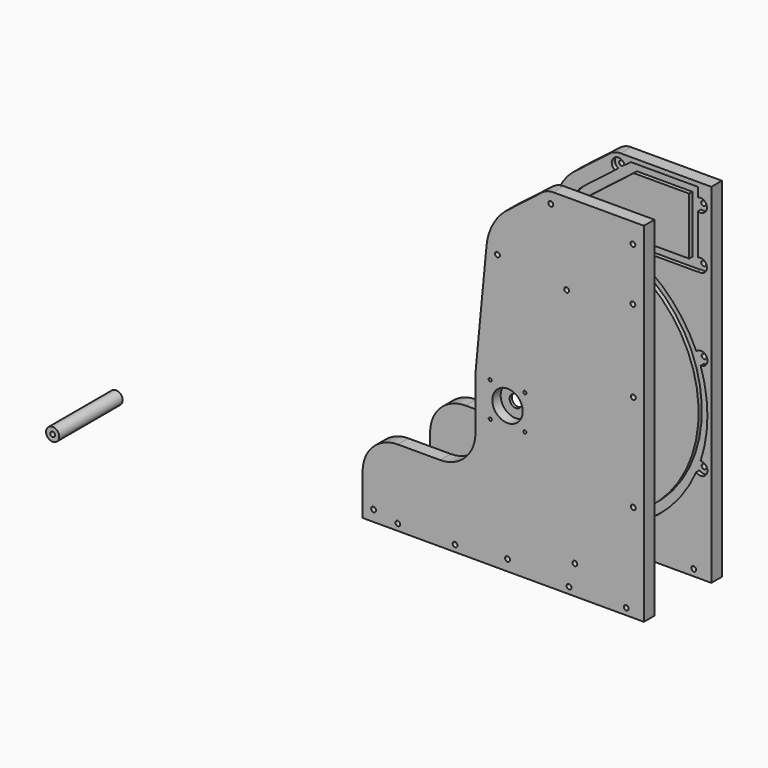
from build123d import *

# Parameters (mm, degrees)
F0_R           = 1.75
F1_DEPTH       = 57.15
F0_R_2         = 4.75
F2_R           = 1.75
F3_DEPTH       = 57.15
F4_W           = 202.8534728251
F4_H           = 251.483
F5_DEPTH       = 3.175
F5_DEPTH_BACK  = 6.35
F6_R           = 4.5
F7_DEPTH       = 25.4
F8_R           = 10.95
F9_DEPTH       = 7.5
F10_R          = 1.125
F11_DEPTH      = 8
F13_DEPTH      = 25.4
F14_R          = 12.7
F15_R          = 25.4
F16_R          = 1.75
F17_DEPTH      = 25.4
F19_DEPTH      = 63.5
F19_DEPTH_BACK = 2.921
F22_R          = 1.75
F23_DEPTH      = 70.359
F24_R          = 1.75
F25_DEPTH      = 25.4


with BuildPart() as f1:
    # F0 (on Front) → F1 (new body)
    with BuildSketch(Plane.XZ):
        with BuildLine():
            ThreePointArc((25.0587877486, 85.5598788719), (88.2508956242, -12.6576118414), (0, -89.154))
            Line((0, -89.154), (-101.346, -89.154))
            Line((-101.346, -89.154), (-101.346, -95.504))
            Line((-101.346, -95.504), (-101.0118804332, -95.504))
            ThreePointArc((-101.0118804332, -95.504), (-96.596, -102.004), (-92.1801195668, -95.504))
            Line((-92.1801195668, -95.504), (-4.4158804332, -95.504))
            ThreePointArc((-4.4158804332, -95.504), (0.05416752, -102.0036911352), (4.3748216005, -95.4037470541))
            ThreePointArc((4.3748216005, -95.4037470541), (24.6792138884, -92.2602320496), (43.8413723267, -84.8466150681))
            ThreePointArc((43.8413723267, -84.8466150681), (50.9272164799, -88.3811893878), (51.422485546, -80.4782082074))
            ThreePointArc((51.422485546, -80.4782082074), (72.5596056535, -62.0976460375), (87.4548836819, -38.3752177347))
            ThreePointArc((87.4548836819, -38.3752177347), (95.186532338, -36.665243453), (90.5999348376, -30.210359538))
            ThreePointArc((90.5999348376, -30.210359538), (95.504, 0), (90.5999348376, 30.210359538))
            ThreePointArc((90.5999348376, 30.210359538), (95.186532338, 36.665243453), (87.4548836819, 38.3752177347))
            ThreePointArc((87.4548836819, 38.3752177347), (70.3810937435, 64.5562983718), (45.7686963095, 83.8226726735))
            ThreePointArc((45.7686963095, 83.8226726735), (47.2640202469, 86.2823767858), (47.0642250669, 89.154))
            Line((47.0642250669, 89.154), (88.6574728251, 89.154))
            Line((88.6574728251, 89.154), (88.6574728251, 89.4881195668))
            ThreePointArc((88.6574728251, 89.4881195668), (95.1574728251, 93.904), (88.6574728251, 98.3198804332))
            Line((88.6574728251, 98.3198804332), (88.6574728251, 127.6131195668))
            ThreePointArc((88.6574728251, 127.6131195668), (95.1574728251, 132.029), (88.6574728251, 136.4448804332))
            Line((88.6574728251, 136.4448804332), (88.6574728251, 136.779))
            Line((88.6574728251, 136.779), (82.3074728251, 136.779))
            Line((82.3074728251, 136.779), (82.3074728251, 95.504))
            Line((82.3074728251, 95.504), (24.8168080525, 95.504))
            ThreePointArc((24.8168080525, 95.504), (22.0671773954, 93.9165), (22.0671773954, 90.7415))
            Line((22.0671773954, 90.7415), (25.0587877486, 85.5598788719))
        make_face()
        with Locations((-96.596, -97.254)):
            Circle(F0_R, mode=Mode.SUBTRACT)
        with Locations((0, -97.254)):
            Circle(F0_R, mode=Mode.SUBTRACT)
        with Locations((48.5556989092, -84.2655601028)):
            Circle(F0_R, mode=Mode.SUBTRACT)
        with Locations((90.754, -34.9578603464)):
            Circle(F0_R, mode=Mode.SUBTRACT)
        with Locations((90.754, 34.9578603464)):
            Circle(F0_R, mode=Mode.SUBTRACT)
        with Locations((42.6483446338, 87.404)):
            Circle(F0_R, mode=Mode.SUBTRACT)
        with Locations((90.4074728251, 93.904)):
            Circle(F0_R, mode=Mode.SUBTRACT)
        with Locations((90.4074728251, 132.029)):
            Circle(F0_R, mode=Mode.SUBTRACT)
    extrude(amount=F1_DEPTH)


with BuildPart() as f1b:
    # F0 (on Front) → F1, piece 2 (new body)
    with BuildSketch(Plane.XZ):
        with Locations((-333.5397839546, -129.3195188046)):
            Circle(F0_R_2)
        with Locations((-333.5397839546, -129.3195188046)):
            Circle(F0_R, mode=Mode.SUBTRACT)
    extrude(amount=F1_DEPTH)


with BuildPart() as f3:
    # F2 (on Front) → F3 (new body, through all)
    with BuildSketch(Plane.XZ):
        with BuildLine():
            ThreePointArc((-5.3499739045, 88.9933339932), (-2.3560587753, 89.1228629648), (0.6405182774, 89.1516990995))
            ThreePointArc((0.6405182774, 89.1516990995), (2.2698711534, 101.6146806303), (9.889892347, 111.6104785693))
            Line((9.889892347, 111.6104785693), (42.4007148213, 136.779))
            Line((42.4007148213, 136.779), (88.6574728251, 136.779))
            Line((88.6574728251, 136.779), (88.6574728251, 143.129))
            Line((88.6574728251, 143.129), (40.2299948985, 143.129))
            Line((40.2299948985, 143.129), (35.7986224071, 139.6984164272))
            ThreePointArc((35.7986224071, 139.6984164272), (28.3278090791, 142.1350017874), (28.8150203861, 134.2920033084))
            Line((28.8150203861, 134.2920033084), (6.1868080135, 116.7741860188))
            ThreePointArc((6.1868080135, 116.7741860188), (-1.25843019, 108.3921080249), (-5.1532585289, 97.8792056847))
            ThreePointArc((-5.1532585289, 97.8792056847), (-12.0100232199, 93.7489753407), (-5.3822793321, 89.2604304004))
            ThreePointArc((-5.3822793321, 89.2604304004), (-5.3664225405, 89.1268464049), (-5.3499739045, 88.9933339932))
        make_face()
        with Locations((-7.2616992911, 93.6228013862)):
            Circle(F2_R, mode=Mode.SUBTRACT)
        with BuildLine():
            ThreePointArc((32.3068213966, 136.9952098678), (29.6643666581, 139.149640332), (32.9855488496, 138.379))
            ThreePointArc((32.9855488496, 138.379), (32.806731041, 137.608359668), (32.3068213966, 136.9952098678))
        make_face(mode=Mode.SUBTRACT)
    extrude(amount=F3_DEPTH)


with BuildPart() as f5:
    # F4 (on Front) → F5 (new body, two sides)
    with BuildSketch(Plane.XZ) as f5_sk:
        with Locations((-3.0942635875, 20.5625)):
            Rectangle(F4_W, F4_H)
    extrude(amount=F5_DEPTH)
    extrude(f5_sk.sketch, amount=-F5_DEPTH_BACK)

    # F6 (on face) → F7 (cut)
    with BuildSketch(Plane(origin=(0, 6.35, 0), x_dir=(-1, 0, 0), z_dir=(0, 1, 0))):
        Circle(F6_R)
    extrude(amount=-F7_DEPTH, mode=Mode.SUBTRACT)

    # F8 (on face) → F9 (cut)
    with BuildSketch(Plane(origin=(0, 6.35, 0), x_dir=(-1, 0, 0), z_dir=(0, 1, 0))):
        Circle(F8_R)
    extrude(amount=-F9_DEPTH, mode=Mode.SUBTRACT)

    # F10 (on face) → F11 (cut)
    with BuildSketch(Plane(origin=(0, 6.35, 0), x_dir=(-1, 0, 0), z_dir=(0, 1, 0))):
        with Locations((12.5, -12.5)):
            Circle(F10_R)
        with Locations((-12.5, -12.5)):
            Circle(F10_R)
        with Locations((-12.5, 12.5)):
            Circle(F10_R)
        with Locations((12.5, 12.5)):
            Circle(F10_R)
    extrude(amount=-F11_DEPTH, mode=Mode.SUBTRACT)

    # F12 (on face) → F13 (cut)
    with BuildSketch(Plane.XZ.offset(3.175)):
        with BuildLine():
            Line((-23.101665185, 13.5135064406), (-23.15, 13.0079057805))
            Line((-23.15, 13.0079057805), (-23.15, 12.5))
            ThreePointArc((-23.15, 12.5), (-23.1379094333, 13.0073291731), (-23.101665185, 13.5135064406))
        make_face()
        with BuildLine():
            Line((-23.15, 12.5), (-23.15, 13.0079057805))
            Line((-23.15, 13.0079057805), (-23.101665185, 13.5135064406))
            Line((-23.101665185, 13.5135064406), (-15.159768729, 96.5887823209))
            ThreePointArc((-15.159768729, 96.5887823209), (-10.9575269271, 111.0059440153), (-1.747512183, 122.8671840811))
            Line((-1.747512183, 122.8671840811), (42.2033034566, 156.8920706))
            Line((42.2033034566, 156.8920706), (-148.3794866094, 156.8920706))
            Line((-148.3794866094, 156.8920706), (-148.3794866094, -50.236582756))
            Line((-148.3794866094, -50.236582756), (-48.55, -50.236582756))
            ThreePointArc((-48.55, -50.236582756), (-30.5894877579, -42.7970949982), (-23.15, -24.836582756))
            Line((-23.15, -24.836582756), (-23.15, 12.5))
        make_face()
    extrude(amount=-F13_DEPTH, mode=Mode.SUBTRACT)

    # F14
    f14_edges = [f5.edges().sort_by_distance(p)[0] for p in [
        (28.526422, 1.5875, 146.304),
    ]]
    fillet(f14_edges, radius=F14_R)

    # F15
    f15_edges = [f5.edges().sort_by_distance(p)[0] for p in [
        (-104.521, 1.5875, -50.236583),
    ]]
    fillet(f15_edges, radius=F15_R)

    # F16 (on face) → F17 (cut)
    with BuildSketch(Plane.XZ.offset(3.175)):
        with Locations((-96.596, -97.254)):
            Circle(F16_R)
        with Locations((0, -97.254)):
            Circle(F16_R)
        with Locations((48.5556989092, -84.2655601028)):
            Circle(F16_R)
        with Locations((90.754, -34.9578603464)):
            Circle(F16_R)
        with Locations((90.754, 34.9578603464)):
            Circle(F16_R)
        with Locations((42.6483446338, 87.404)):
            Circle(F16_R)
        with Locations((90.4074728251, 93.904)):
            Circle(F16_R)
        with Locations((90.4074728251, 132.029)):
            Circle(F16_R)
        with Locations((31.2355488496, 138.379)):
            Circle(F16_R)
        with Locations((-7.2616992911, 93.6228013862)):
            Circle(F16_R)
    extrude(amount=-F17_DEPTH, mode=Mode.SUBTRACT)


with BuildPart() as f19_tool:
    # F18 (on face) → F19 (new body, two sides)
    with BuildSketch(Plane.XZ.offset(3.175)) as f19_sk:
        with BuildLine():
            Line((22.0671773954, 90.7415), (25.0587877486, 85.5598788719))
            ThreePointArc((25.0587877486, 85.5598788719), (88.2508956242, -12.6576118414), (0, -89.154))
            Line((0, -89.154), (-101.346, -89.154))
            Line((-101.346, -89.154), (-101.346, -95.504))
            Line((-101.346, -95.504), (-101.0118804332, -95.504))
            ThreePointArc((-101.0118804332, -95.504), (-96.596, -102.004), (-92.1801195668, -95.504))
            Line((-92.1801195668, -95.504), (-4.4158804332, -95.504))
            ThreePointArc((-4.4158804332, -95.504), (0.05416752, -102.0036911352), (4.3748216005, -95.4037470541))
            ThreePointArc((4.3748216005, -95.4037470541), (24.6792138884, -92.2602320496), (43.8413723267, -84.8466150681))
            ThreePointArc((43.8413723267, -84.8466150681), (50.9272164799, -88.3811893878), (51.422485546, -80.4782082074))
            ThreePointArc((51.422485546, -80.4782082074), (72.5596056535, -62.0976460375), (87.4548836819, -38.3752177347))
            ThreePointArc((87.4548836819, -38.3752177347), (95.186532338, -36.665243453), (90.5999348376, -30.210359538))
            ThreePointArc((90.5999348376, -30.210359538), (95.504, 0), (90.5999348376, 30.210359538))
            ThreePointArc((90.5999348376, 30.210359538), (95.186532338, 36.665243453), (87.4548836819, 38.3752177347))
            ThreePointArc((87.4548836819, 38.3752177347), (70.3810937435, 64.5562983718), (45.7686963095, 83.8226726735))
            ThreePointArc((45.7686963095, 83.8226726735), (47.2640202469, 86.2823767858), (47.0642250669, 89.154))
            Line((47.0642250669, 89.154), (88.6574728251, 89.154))
            Line((88.6574728251, 89.154), (88.6574728251, 89.4881195668))
            ThreePointArc((88.6574728251, 89.4881195668), (95.1574728251, 93.904), (88.6574728251, 98.3198804332))
            Line((88.6574728251, 98.3198804332), (88.6574728251, 127.6131195668))
            ThreePointArc((88.6574728251, 127.6131195668), (95.1574728251, 132.029), (88.6574728251, 136.4448804332))
            Line((88.6574728251, 136.4448804332), (88.6574728251, 136.779))
            Line((88.6574728251, 136.779), (82.3074728251, 136.779))
            Line((82.3074728251, 136.779), (82.3074728251, 95.504))
            Line((82.3074728251, 95.504), (24.8168080525, 95.504))
            ThreePointArc((24.8168080525, 95.504), (22.0671773954, 93.9165), (22.0671773954, 90.7415))
        make_face()
        with BuildLine():
            Line((42.4007148213, 136.779), (82.3074728251, 136.779))
            Line((82.3074728251, 136.779), (88.6574728251, 136.779))
            Line((88.6574728251, 136.779), (88.6574728251, 143.129))
            Line((88.6574728251, 143.129), (40.2299948985, 143.129))
            Line((40.2299948985, 143.129), (35.7986224071, 139.6984164272))
            ThreePointArc((35.7986224071, 139.6984164272), (28.3278090791, 142.1350017874), (28.8150203861, 134.2920033084))
            Line((28.8150203861, 134.2920033084), (6.1868080135, 116.7741860188))
            ThreePointArc((6.1868080135, 116.7741860188), (-1.25843019, 108.3921080249), (-5.1532585289, 97.8792056847))
            ThreePointArc((-5.1532585289, 97.8792056847), (-12.0100232199, 93.7489753407), (-5.3822793321, 89.2604304004))
            ThreePointArc((-5.3822793321, 89.2604304004), (-5.3664225405, 89.1268464049), (-5.3499739045, 88.9933339932))
            ThreePointArc((-5.3499739045, 88.9933339932), (-2.3560587753, 89.1228629648), (0.6405182774, 89.1516990995))
            ThreePointArc((0.6405182774, 89.1516990995), (2.2698711534, 101.6146806303), (9.889892347, 111.6104785693))
            Line((9.889892347, 111.6104785693), (42.4007148213, 136.779))
        make_face()
    extrude(amount=F19_DEPTH)
    extrude(f19_sk.sketch, amount=-F19_DEPTH_BACK)


with BuildPart() as f1_1:
    add(f1.part)

    # F19: cut by f19_tool
    add(f19_tool.part, mode=Mode.SUBTRACT)

    # F24 (on face) → F25 (cut)
    with BuildSketch(Plane.XZ.offset(3.175)):
        with Locations((-79.121, -100.4165)):
            Circle(F24_R)
        with Locations((-37.846, -100.4165)):
            Circle(F24_R)
        with Locations((44.3574728251, -100.4165)):
            Circle(F24_R)
        with Locations((85.6324728251, -100.4165)):
            Circle(F24_R)
    extrude(amount=-F25_DEPTH, mode=Mode.SUBTRACT)


with BuildPart() as f3_1:
    add(f3.part)

    # F19: cut by f19_tool
    add(f19_tool.part, mode=Mode.SUBTRACT)


with BuildPart() as f5_1:
    add(f5.part)

    # F19: cut by f19_tool
    add(f19_tool.part, mode=Mode.SUBTRACT)


with BuildPart() as f21_1:
    # F21: instance of F5
    add(f5_1.part.mirror(Plane(origin=(24.7872404127, -28.829, 0.1666181525), x_dir=(1, 0, 0), z_dir=(0, -1, 0))))


with BuildPart() as f23_tool:
    # F22 (on face) → F23 (new body, through all)
    with BuildSketch(Plane.XZ.offset(64.008)):
        with Locations((85.6324728251, -100.4165)):
            Circle(F22_R)
        with Locations((44.3574728251, -100.4165)):
            Circle(F22_R)
        with Locations((-79.121, -100.4165)):
            Circle(F22_R)
        with Locations((-37.846, -100.4165)):
            Circle(F22_R)
    extrude(amount=-F23_DEPTH)


with BuildPart() as f5_2:
    add(f5_1.part)

    # F23: cut by f23_tool
    add(f23_tool.part, mode=Mode.SUBTRACT)


with BuildPart() as f21_1_1:
    add(f21_1.part)

    # F23: cut by f23_tool
    add(f23_tool.part, mode=Mode.SUBTRACT)


solid = Compound([f1b.part, f1_1.part, f3_1.part, f5_2.part, f21_1_1.part])
